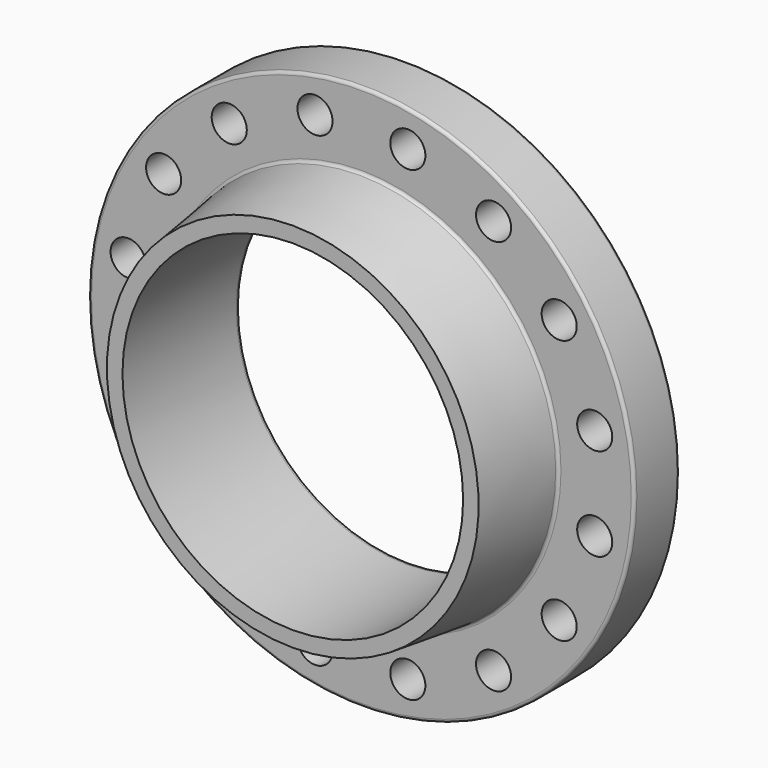
from build123d import *

# Parameters (mm, degrees)
F0_R     = 222.25
F0_R_2   = 14.2875
F0_R_3   = 136.525
F1_DEPTH = 45.974
F2_W     = 45.974
F2_H     = 138.684
F2_H_2   = 21.59
F4_R     = 138.684
F5_DEPTH = 115.825
F6_R     = 161.925
F6_R_2   = 127.254
F7_DEPTH = 1.5875
F8_R     = 2.54
F9_DEPTH = 25.4


with BuildPart() as f1:
    # F0 (on Front) → F1 (new body)
    with BuildSketch(Plane.XZ):
        Circle(F0_R)
        with Locations((-37.7841181165, -189.9535891821)):
            Circle(F0_R_2, mode=Mode.SUBTRACT)
        with Locations((-107.6000648801, -161.0348771627)):
            Circle(F0_R_2, mode=Mode.SUBTRACT)
        with Locations((-161.0348771627, -107.6000648801)):
            Circle(F0_R_2, mode=Mode.SUBTRACT)
        with Locations((-189.9535891821, -37.7841181165)):
            Circle(F0_R_2, mode=Mode.SUBTRACT)
        with Locations((37.7841181165, -189.9535891821)):
            Circle(F0_R_2, mode=Mode.SUBTRACT)
        with Locations((107.6000648801, -161.0348771627)):
            Circle(F0_R_2, mode=Mode.SUBTRACT)
        with Locations((161.0348771627, -107.6000648801)):
            Circle(F0_R_2, mode=Mode.SUBTRACT)
        with Locations((189.9535891821, -37.7841181165)):
            Circle(F0_R_2, mode=Mode.SUBTRACT)
        with Locations((-189.9535891821, 37.7841181165)):
            Circle(F0_R_2, mode=Mode.SUBTRACT)
        with Locations((-161.0348771627, 107.6000648801)):
            Circle(F0_R_2, mode=Mode.SUBTRACT)
        with Locations((-107.6000648801, 161.0348771627)):
            Circle(F0_R_2, mode=Mode.SUBTRACT)
        with Locations((-37.7841181165, 189.9535891821)):
            Circle(F0_R_2, mode=Mode.SUBTRACT)
        Circle(F0_R_3, mode=Mode.SUBTRACT)
        with Locations((189.9535891821, 37.7841181165)):
            Circle(F0_R_2, mode=Mode.SUBTRACT)
        with Locations((161.0348771627, 107.6000648801)):
            Circle(F0_R_2, mode=Mode.SUBTRACT)
        with Locations((107.6000648801, 161.0348771627)):
            Circle(F0_R_2, mode=Mode.SUBTRACT)
        with Locations((37.7841181165, 189.9535891821)):
            Circle(F0_R_2, mode=Mode.SUBTRACT)
    extrude(amount=F1_DEPTH)

    # F2 (on Right) → F3 (revolve)
    with BuildSketch(Plane.YZ):
        with Locations((-22.987, 69.342)):
            Rectangle(F2_W, F2_H)
        with Locations((-22.987, 149.479)):
            Rectangle(F2_W, F2_H_2)
        Polygon((-115.824, 138.684), (-45.974, 138.684), (-45.974, 160.274), (-115.824, 151.3151675463), align=None)
    revolve(axis=Axis((0, -61.0863305628, 0), (0, -1, 0)))

    # F4 (on face) → F5 (cut, through all)
    with BuildSketch(Plane(origin=(0, 0, 0), x_dir=(-1, 0, 0), z_dir=(0, 1, 0))):
        Circle(F4_R)
    extrude(amount=-F5_DEPTH, mode=Mode.SUBTRACT)

    # F6 (on face) → F7 (join)
    with BuildSketch(Plane(origin=(0, 0, 0), x_dir=(-1, 0, 0), z_dir=(0, 1, 0))):
        Circle(F6_R)
        Circle(F6_R_2, mode=Mode.SUBTRACT)
    extrude(amount=F7_DEPTH)

    # F8
    f8_edges = [f1.edges().sort_by_distance(p)[0] for p in [
        (-222.25, 0, 0),
        (-222.25, -45.974, 0),
        (0, -45.974, -160.274),
    ]]
    fillet(f8_edges, radius=F8_R)

    # F9 (cut): a face of the model
    f9_faces = [f1.faces().sort_by_distance(p)[0] for p in [
        (134.7614241263, 0, 0),
    ]]
    extrude(f9_faces, amount=-F9_DEPTH, mode=Mode.SUBTRACT)


solid = f1.part
